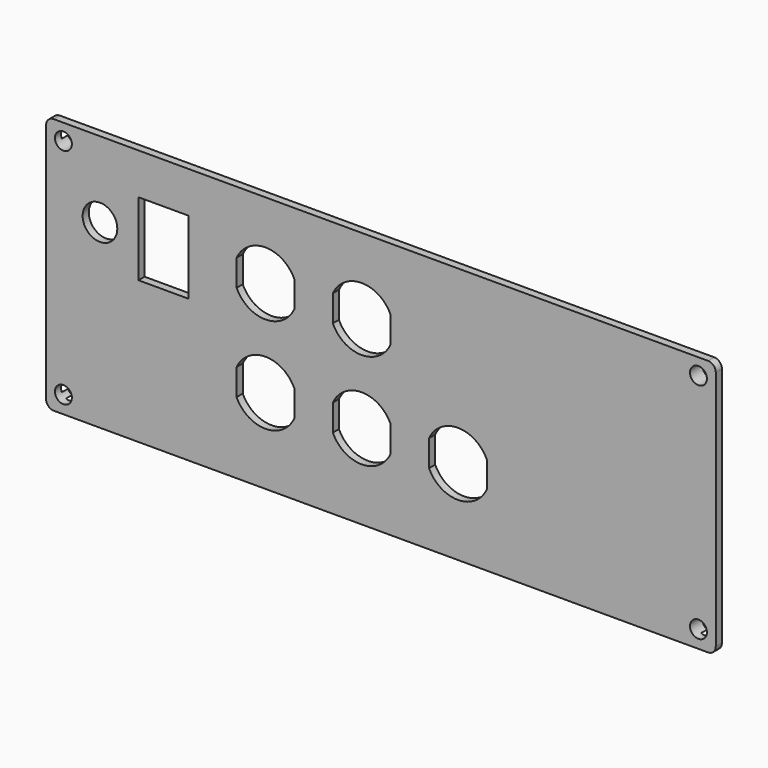
from build123d import *

# Parameters (mm, degrees)
PAD004_DEPTH    = 2
SKETCH008_W     = 169
SKETCH008_H     = 61.7
PAD005_DEPTH    = 2
SKETCH009_R     = 2.2
POCKET002_DEPTH = 4.001
SKETCH012_W     = 159
SKETCH012_H     = 51.7
POCKET005_DEPTH = 2
SKETCH010_R     = 4.5
SKETCH010_W     = 13
SKETCH010_H     = 19
POCKET003_DEPTH = 4.001


with BuildPart() as part:
    # Sketch007 → Pad004 (new body)
    with BuildSketch(Plane.XZ):
        with BuildLine():
            Line((-2, 62.7), (-2, 0))
            ThreePointArc((-2, 0), (-1.414214, -1.414214), (0, -2))
            Line((0, -2), (170, -2))
            ThreePointArc((170, -2), (171.414214, -1.414214), (172, 0))
            Line((172, 0), (172, 62.7))
            ThreePointArc((172, 62.7), (171.414214, 64.114214), (170, 64.7))
            Line((170, 64.7), (0, 64.7))
            ThreePointArc((0, 64.7), (-1.414214, 64.114214), (-2, 62.7))
        make_face()
    extrude(amount=PAD004_DEPTH)

    # Sketch008 (on Face9 of Pad004) → Pad005 (join)
    with BuildSketch(Plane(origin=(0, 0, 0), x_dir=(1, 0, 0), z_dir=(0, 1, 0))):
        with Locations((85, -31.35)):
            Rectangle(SKETCH008_W, SKETCH008_H)
    extrude(amount=PAD005_DEPTH)

    # Sketch009 (on Face5 of Pad005) → Pocket002 (cut, through all)
    with BuildSketch(Plane.XZ.offset(2)):
        with Locations((2.5, 2.5)):
            Circle(SKETCH009_R)
        with Locations((2.5, 60.5)):
            Circle(SKETCH009_R)
        with Locations((167.5, 60.5)):
            Circle(SKETCH009_R)
        with Locations((167.5, 2.5)):
            Circle(SKETCH009_R)
    extrude(amount=-POCKET002_DEPTH, mode=Mode.SUBTRACT)

    # Sketch012 (on Face28 of Pocket002) → Pocket005 (cut)
    with BuildSketch(Plane(origin=(0, 2, 0), x_dir=(1, 0, 0), z_dir=(0, 1, 0))):
        with Locations((85, -31.35)):
            Rectangle(SKETCH012_W, SKETCH012_H)
    extrude(amount=-POCKET005_DEPTH, mode=Mode.SUBTRACT)


with BuildPart() as part_1:
    # Body003 placement: moved
    add(part.part.moved(Location((-5, -5, 0))))


with BuildPart() as part_2:
    # BaseFeature placement: moved
    add(part_1.part.moved(Location((5, 5, 0))))

    # Sketch010 (on Face5 of BaseFeature) → Pocket003 (cut, through all)
    with BuildSketch(Plane.XZ.offset(2)):
        with Locations((12, 45)):
            Circle(SKETCH010_R)
        with Locations((28.5, 44.5)):
            Rectangle(SKETCH010_W, SKETCH010_H)
        with BuildLine():
            Line((62.5, 23.436932), (62.5, 16.563068))
            ThreePointArc((47.5, 16.563068), (55, 11.75), (62.5, 16.563068))
            Line((47.5, 23.436932), (47.5, 16.563068))
            ThreePointArc((62.5, 23.436932), (55, 28.25), (47.5, 23.436932))
        make_face()
        with BuildLine():
            ThreePointArc((47.5, 41.563068), (55, 36.75), (62.5, 41.563068))
            Line((62.5, 48.436932), (62.5, 41.563068))
            ThreePointArc((62.5, 48.436932), (55, 53.25), (47.5, 48.436932))
            Line((47.5, 48.436932), (47.5, 41.563068))
        make_face()
        with BuildLine():
            ThreePointArc((87.5, 23.436932), (80, 28.25), (72.5, 23.436932))
            Line((72.5, 23.436932), (72.5, 16.563068))
            ThreePointArc((72.5, 16.563068), (80, 11.75), (87.5, 16.563068))
            Line((87.5, 23.436932), (87.5, 16.563068))
        make_face()
        with BuildLine():
            Line((97.5, 23.436932), (97.5, 16.563068))
            ThreePointArc((97.5, 16.563068), (105, 11.75), (112.5, 16.563068))
            Line((112.5, 23.436932), (112.5, 16.563068))
            ThreePointArc((112.5, 23.436932), (105, 28.25), (97.5, 23.436932))
        make_face()
        with BuildLine():
            Line((72.5, 48.436932), (72.5, 41.563068))
            ThreePointArc((72.5, 41.563068), (80, 36.75), (87.5, 41.563068))
            Line((87.5, 48.436932), (87.5, 41.563068))
            ThreePointArc((87.5, 48.436932), (80, 53.25), (72.5, 48.436932))
        make_face()
    extrude(amount=-POCKET003_DEPTH, mode=Mode.SUBTRACT)


with BuildPart() as part_3:
    # Body004 placement: moved
    add(part_2.part.moved(Location((-5, -5, 0))))


solid = part_3.part
